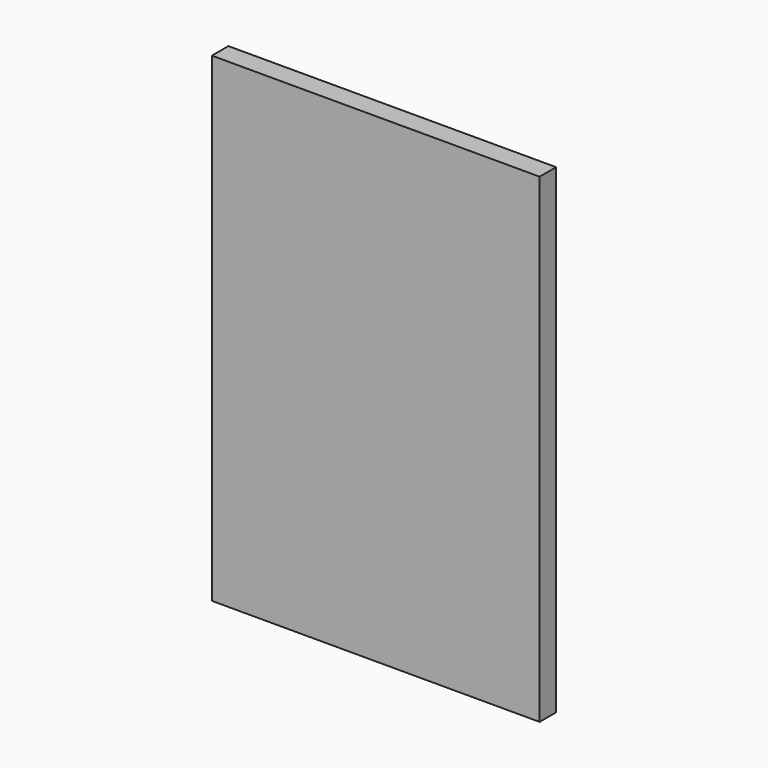
from build123d import *

# Parameters (mm, degrees)
SKETCH001_W = 25.4
SKETCH001_H = 37.2
PAD_DEPTH   = 1.6


with BuildPart() as part:
    # Sketch001 → Pad (new body)
    with BuildSketch(Plane.XZ):
        Rectangle(SKETCH001_W, SKETCH001_H)
    extrude(amount=PAD_DEPTH)


solid = part.part
